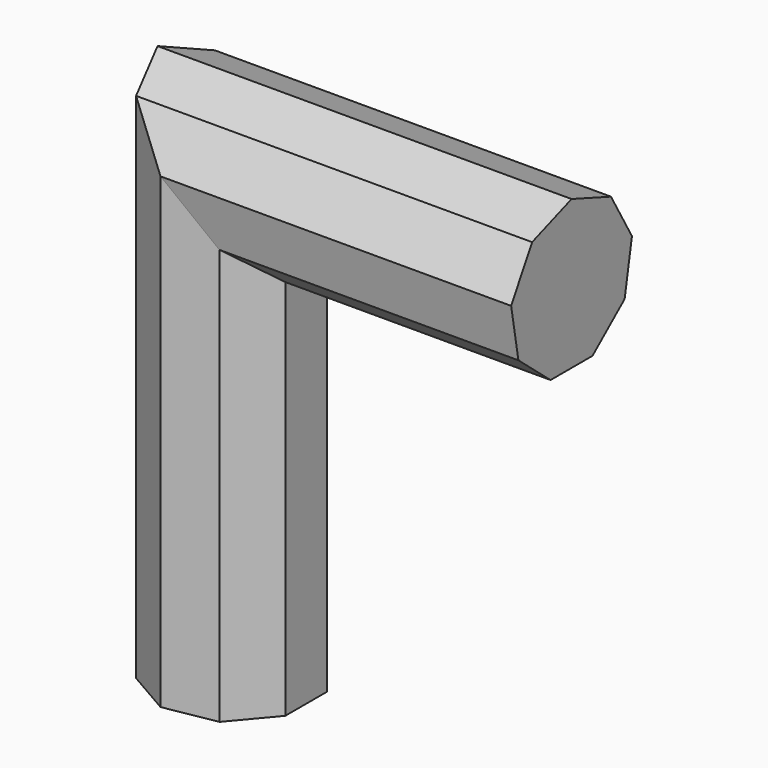
from build123d import *


with BuildPart() as f2:
    # F2: sweep along a path in F1
    with BuildLine(Plane.XZ) as f2_path:
        Line((0, 0), (0, 76.3493329287))
        Line((0, 76.3493329287), (56.7403957248, 76.3493329287))
    # F0 (on Top) → F2 (sweep)
    with BuildSketch(Plane.XY):
        Polygon((12.1181989556, -4.4106637127), (12.1181989556, 4.4106637127), (6.4479589855, 11.168192568), (-2.239352655, 12.7), (-9.8788463006, 8.2893362873), (-12.8959179709, 0), (-9.8788463006, -8.2893362873), (-2.239352655, -12.7), (6.4479589855, -11.168192568), align=None)
    sweep(path=f2_path.line, transition=Transition.RIGHT)


solid = f2.part
